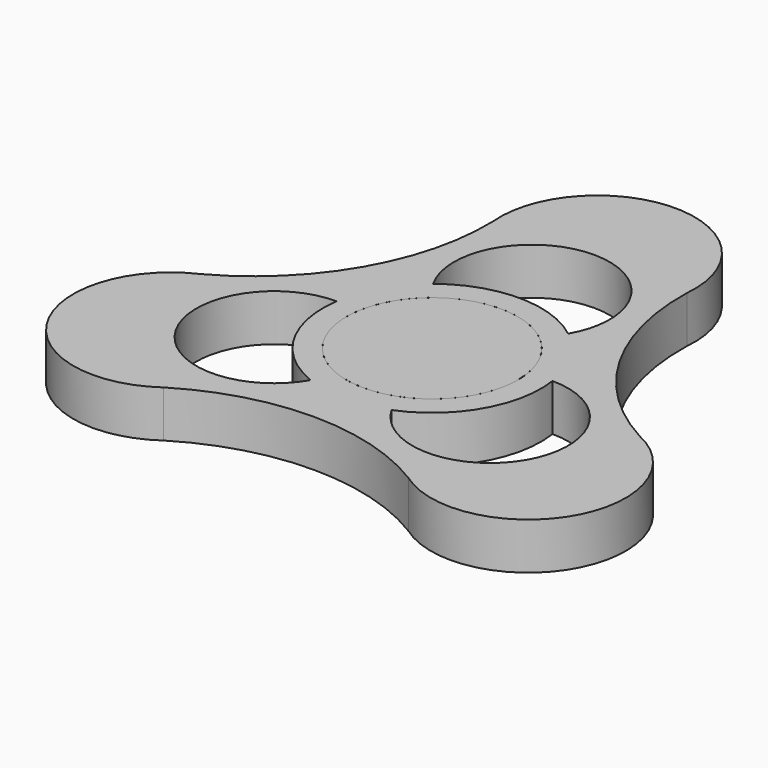
from build123d import *

# Parameters (mm, degrees)
F1_DEPTH = 6
F2_R     = 11
F3_DEPTH = 6


with BuildPart() as f1:
    # F0 (on Top) → F1 (new body)
    with BuildSketch(Plane.XY):
        with BuildLine():
            ThreePointArc((28.153133, -1.884526), (16.452417, 9.498808), (12.444519, 25.323591))
            ThreePointArc((12.444519, 25.323591), (0, 39), (-12.444519, 25.323591))
            ThreePointArc((-12.444519, 25.323591), (-16.452417, 9.498808), (-28.153133, -1.884526))
            ThreePointArc((-28.153133, -1.884526), (-33.774991, -19.5), (-15.708613, -23.439065))
            ThreePointArc((-15.708613, -23.439065), (0, -18.997615), (15.708613, -23.439065))
            ThreePointArc((15.708613, -23.439065), (33.774991, -19.5), (28.153133, -1.884526))
        make_face()
        with BuildLine():
            ThreePointArc((-13.856406, 2), (-12.124356, -7), (-5.196152, -13))
            ThreePointArc((-5.196152, -13), (-22.51666, -13), (-13.856406, 2))
        make_face(mode=Mode.SUBTRACT)
        with BuildLine():
            ThreePointArc((5.196152, -13), (12.124356, -7), (13.856406, 2))
            ThreePointArc((13.856406, 2), (22.51666, -13), (5.196152, -13))
        make_face(mode=Mode.SUBTRACT)
        with BuildLine():
            ThreePointArc((-10.890252, 1.54997), (-9.526279, 5.5), (-6.78744, 8.65625))
            ThreePointArc((-6.78744, 8.65625), (0, 11), (6.78744, 8.65625))
            ThreePointArc((6.78744, 8.65625), (9.526279, 5.5), (10.890252, 1.54997))
            ThreePointArc((10.890252, 1.54997), (10.972529, 0.776925), (11, 0))
            ThreePointArc((11, 0), (9.114026, -6.159101), (4.102813, -10.20622))
            ThreePointArc((4.102813, -10.20622), (0, -11), (-4.102813, -10.20622))
            ThreePointArc((-4.102813, -10.20622), (-9.526279, -5.5), (-10.890252, 1.54997))
        make_face(mode=Mode.SUBTRACT)
        with BuildLine():
            ThreePointArc((-8.660254, 11), (0, 26), (8.660254, 11))
            ThreePointArc((8.660254, 11), (0, 14), (-8.660254, 11))
        make_face(mode=Mode.SUBTRACT)
    extrude(amount=F1_DEPTH)


with BuildPart() as f3:
    # F2 (on Top) → F3 (new body)
    with BuildSketch(Plane.XY):
        Circle(F2_R)
    extrude(amount=F3_DEPTH)


solid = Compound([f1.part, f3.part])
